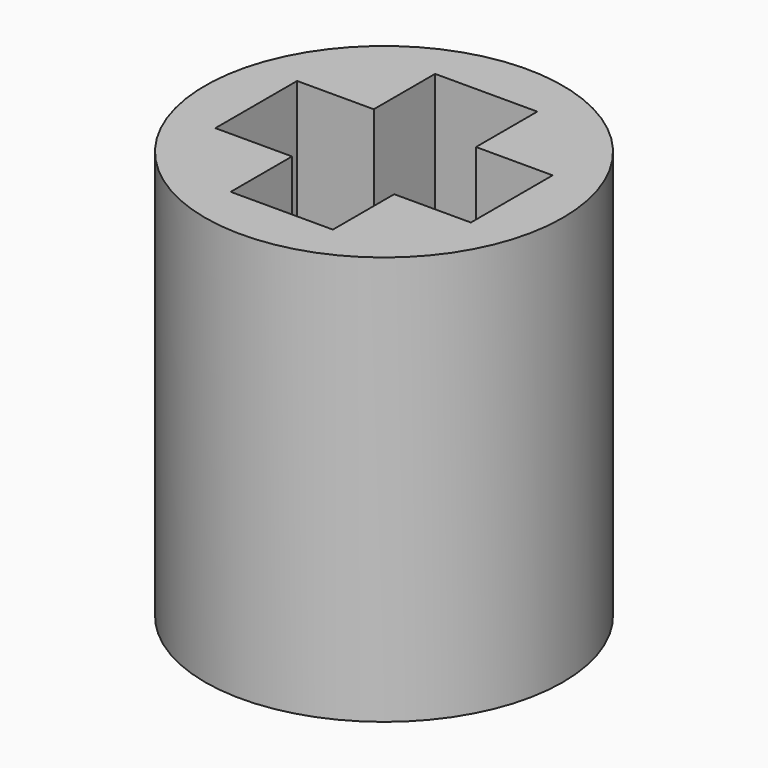
from build123d import *

# Parameters (mm, degrees)
F0_R     = 3.5
F1_DEPTH = 8


with BuildPart() as f1:
    # F0 (on Top) → F1 (new body)
    with BuildSketch(Plane.XY):
        Circle(F0_R)
        Polygon((1, -2.5), (0, -2.5), (-1, -2.5), (-1, -1), (-2.5, -1), (-2.5, 1), (-1, 1), (-1, 2.5), (1, 2.5), (1, 1), (2.5, 1), (2.5, -1), (1, -1), align=None, mode=Mode.SUBTRACT)
    extrude(amount=F1_DEPTH)


solid = f1.part
